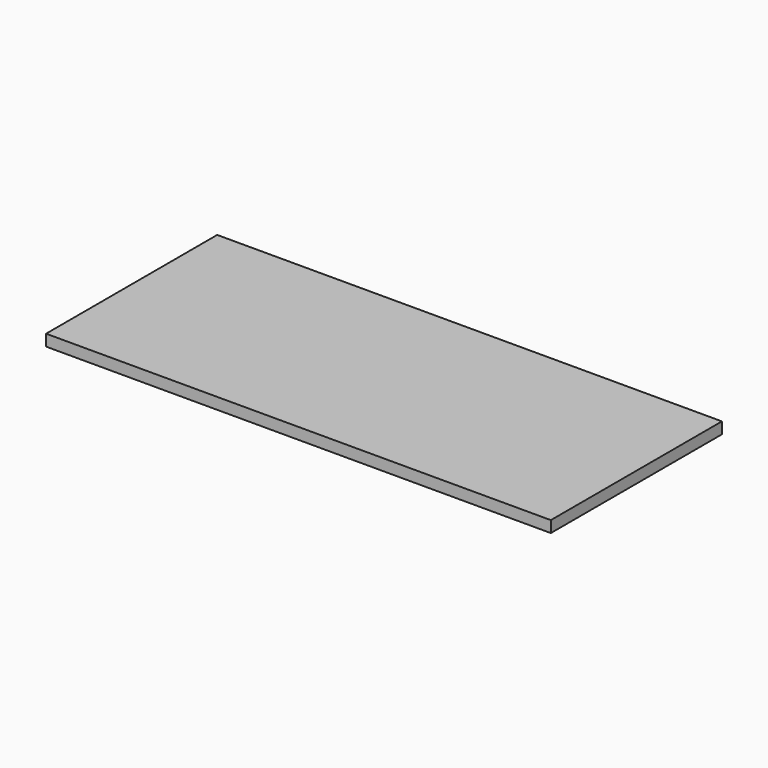
from build123d import *

# Parameters (mm, degrees)
SKETCH_W  = 70.8
SKETCH_H  = 30
PAD_DEPTH = 1.6


with BuildPart() as part:
    # Sketch → Pad (new body)
    with BuildSketch(Plane.XY):
        Rectangle(SKETCH_W, SKETCH_H)
    extrude(amount=PAD_DEPTH)


solid = part.part
